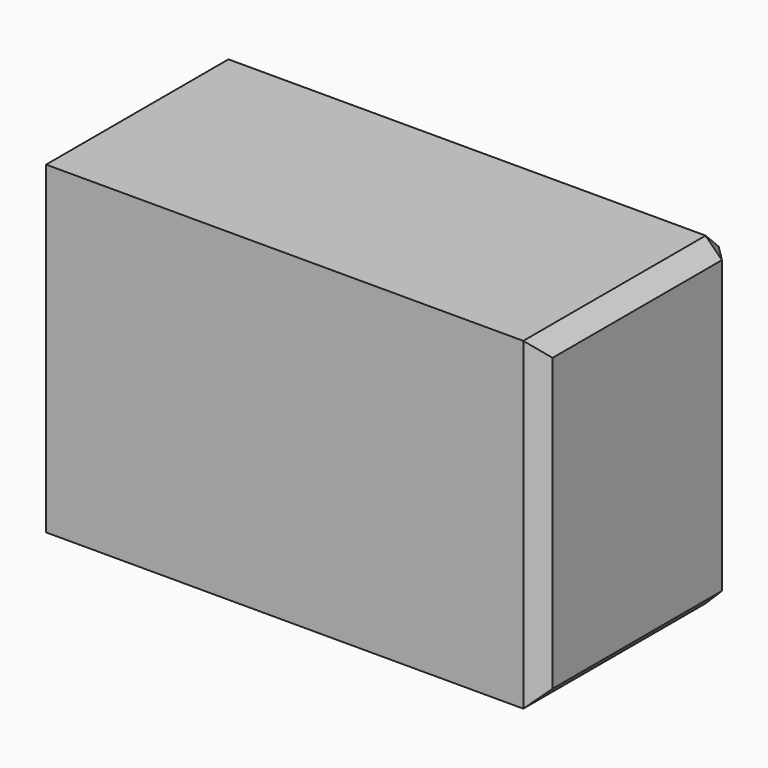
from build123d import *

# Parameters (mm, degrees)
F0_W     = 153.96755
F0_H     = 12.265423
F0_H_2   = 76.499647
F1_DEPTH = 76.2
F2_SIZE  = 5.08


with BuildPart() as f1:
    # F0 (on Front) → F1 (new body)
    with BuildSketch(Plane.XZ):
        with Locations((0, 38.249823)):
            Rectangle(F0_W, F0_H)
        with Locations((0, -6.132711)):
            Rectangle(F0_W, F0_H_2)
        with Locations((0, -50.515246)):
            Rectangle(F0_W, F0_H)
    extrude(amount=F1_DEPTH)

    # F2
    f2_edges = [f1.edges().sort_by_distance(p)[0] for p in [
        (0, 0, -56.647958),
        (0, 0, 44.382535),
        (-76.983775, 0, -6.132711),
        (76.983775, 0, -6.132711),
        (76.983775, -38.1, 44.382535),
        (76.983775, -38.1, -56.647958),
        (76.983775, -76.2, -6.132711),
    ]]
    chamfer(f2_edges, length=F2_SIZE)


solid = f1.part
